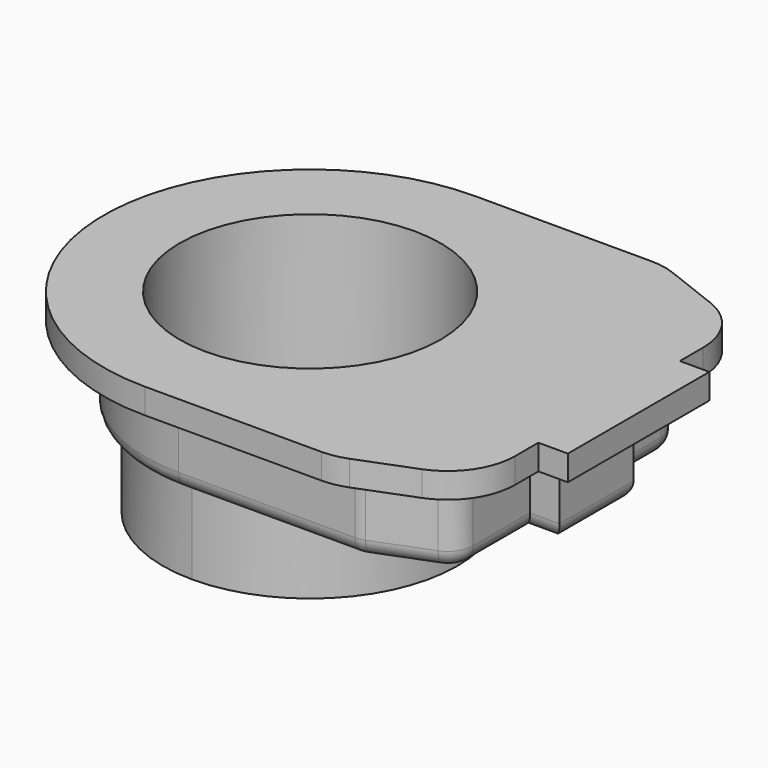
from build123d import *

# Parameters (mm, degrees)
F0_W     = 3.5
F0_H     = 11
F1_DEPTH = 10
F2_R     = 3
F3_R     = 15.5
F4_DEPTH = 25
F3_W     = 3.5
F3_H     = 5
F5_DEPTH = 3
F6_R     = 2
F7_R     = 15.5
F8_DEPTH = 10


with BuildPart() as f1:
    # F0 (on Top) → F1 (new body)
    with BuildSketch(Plane.XY):
        with BuildLine():
            ThreePointArc((0, -19.5), (13.7885822331, -13.7885822331), (19.5, 0))
            ThreePointArc((19.5, 0), (13.7885822331, 13.7885822331), (0, 19.5))
            ThreePointArc((0, 19.5), (-19.5, 0), (0, -19.5))
        make_face()
        with BuildLine():
            ThreePointArc((0, 19.5), (13.7885822331, 13.7885822331), (19.5, 0))
            ThreePointArc((19.5, 0), (13.7885822331, -13.7885822331), (0, -19.5))
            Line((0, -19.5), (21.5, -19.5))
            Line((21.5, -19.5), (21.5, 19.5))
            Line((21.5, 19.5), (0, 19.5))
        make_face()
        Polygon((30.5, 16), (21.5, 19.5), (21.5, -19.5), (30.5, -16), (30.5, -5.5), (30.5, 5.5), align=None)
        with Locations((32.25, 0)):
            Rectangle(F0_W, F0_H)
    extrude(amount=F1_DEPTH)

    # F2
    f2_edges = [f1.edges().sort_by_distance(p)[0] for p in [
        (30.5, 16, 5),
        (21.5, 19.5, 5),
        (30.5, -16, 5),
        (21.5, -19.5, 5),
    ]]
    fillet(f2_edges, radius=F2_R)

    # F3 (on face) → F4 (cut)
    with BuildSketch(Plane.XY.offset(10)):
        Circle(F3_R)
        with BuildLine():
            Line((20.9371966075, 16.5), (10.3923048454, 16.5))
            ThreePointArc((10.3923048454, 16.5), (17.0719059347, 9.4233766643), (19.5, 0))
            ThreePointArc((19.5, 0), (17.0719059347, -9.4233766643), (10.3923048454, -16.5))
            Line((10.3923048454, -16.5), (20.9371966075, -16.5))
            Line((20.9371966075, -16.5), (27.5, -13.9477986807))
            Line((27.5, -13.9477986807), (27.5, -2.5))
            Line((27.5, -2.5), (27.5, 2.5))
            Line((27.5, 2.5), (27.5, 13.9477986807))
            Line((27.5, 13.9477986807), (20.9371966075, 16.5))
        make_face()
    extrude(amount=-F4_DEPTH, mode=Mode.SUBTRACT)

    # F3 (on face) → F5 (join)
    with BuildSketch(Plane.XY.offset(10)):
        with BuildLine():
            Line((20.9371966075, 24.5), (0, 24.5))
            ThreePointArc((0, 24.5), (-24.5, 0), (0, -24.5))
            Line((0, -24.5), (20.9371966075, -24.5))
            ThreePointArc((20.9371966075, -24.5), (22.4122730498, -24.3628334263), (23.8367666967, -23.9560373723))
            Line((23.8367666967, -23.9560373723), (30.3995700892, -21.403836053))
            ThreePointArc((30.3995700892, -21.403836053), (34.1028993902, -18.4646249606), (35.5, -13.9477986807))
            Line((35.5, -13.9477986807), (35.5, -10.5))
            Line((35.5, -10.5), (39, -10.5))
            Line((39, -10.5), (39, 10.5))
            Line((39, 10.5), (35.5, 10.5))
            Line((35.5, 10.5), (35.5, 13.9477986807))
            ThreePointArc((35.5, 13.9477986807), (34.1028993902, 18.4646249606), (30.3995700892, 21.403836053))
            Line((30.3995700892, 21.403836053), (23.8367666967, 23.9560373723))
            ThreePointArc((23.8367666967, 23.9560373723), (22.4122730498, 24.3628334263), (20.9371966075, 24.5))
        make_face()
        with BuildLine():
            ThreePointArc((0, -19.5), (-19.5, 0), (0, 19.5))
            Line((0, 19.5), (20.9371966075, 19.5))
            ThreePointArc((20.9371966075, 19.5), (21.4903502734, 19.4485625349), (22.024535391, 19.2960140146))
            Line((22.024535391, 19.2960140146), (28.5873387835, 16.7438126953))
            ThreePointArc((28.5873387835, 16.7438126953), (29.9760872713, 15.6416085357), (30.5, 13.9477986807))
            Line((30.5, 13.9477986807), (30.5, 5.5))
            Line((30.5, 5.5), (34, 5.5))
            Line((34, 5.5), (34, -5.5))
            Line((34, -5.5), (30.5, -5.5))
            Line((30.5, -5.5), (30.5, -13.9477986807))
            ThreePointArc((30.5, -13.9477986807), (29.9760872713, -15.6416085357), (28.5873387835, -16.7438126953))
            Line((28.5873387835, -16.7438126953), (22.024535391, -19.2960140146))
            ThreePointArc((22.024535391, -19.2960140146), (21.4903502734, -19.4485625349), (20.9371966075, -19.5))
            Line((20.9371966075, -19.5), (0, -19.5))
        make_face(mode=Mode.SUBTRACT)
        with BuildLine():
            ThreePointArc((0, -16.5), (-16.5, 0), (0, 16.5))
            Line((0, 16.5), (10.3923048454, 16.5))
            ThreePointArc((10.3923048454, 16.5), (5.4083269132, 18.7349939952), (0, 19.5))
            ThreePointArc((0, 19.5), (-19.5, 0), (0, -19.5))
            ThreePointArc((0, -19.5), (5.4083269132, -18.7349939952), (10.3923048454, -16.5))
            Line((10.3923048454, -16.5), (0, -16.5))
        make_face()
        with Locations((29.25, 0)):
            Rectangle(F3_W, F3_H)
        with BuildLine():
            ThreePointArc((0, 19.5), (5.4083269132, 18.7349939952), (10.3923048454, 16.5))
            Line((10.3923048454, 16.5), (20.9371966075, 16.5))
            Line((20.9371966075, 16.5), (27.5, 13.9477986807))
            Line((27.5, 13.9477986807), (27.5, 2.5))
            Line((27.5, 2.5), (31, 2.5))
            Line((31, 2.5), (31, -2.5))
            Line((31, -2.5), (27.5, -2.5))
            Line((27.5, -2.5), (27.5, -13.9477986807))
            Line((27.5, -13.9477986807), (20.9371966075, -16.5))
            Line((20.9371966075, -16.5), (10.3923048454, -16.5))
            ThreePointArc((10.3923048454, -16.5), (5.4083269132, -18.7349939952), (0, -19.5))
            Line((0, -19.5), (20.9371966075, -19.5))
            ThreePointArc((20.9371966075, -19.5), (21.4903502734, -19.4485625349), (22.024535391, -19.2960140146))
            Line((22.024535391, -19.2960140146), (28.5873387835, -16.7438126953))
            ThreePointArc((28.5873387835, -16.7438126953), (29.9760872713, -15.6416085357), (30.5, -13.9477986807))
            Line((30.5, -13.9477986807), (30.5, -5.5))
            Line((30.5, -5.5), (34, -5.5))
            Line((34, -5.5), (34, 5.5))
            Line((34, 5.5), (30.5, 5.5))
            Line((30.5, 5.5), (30.5, 13.9477986807))
            ThreePointArc((30.5, 13.9477986807), (29.9760872713, 15.6416085357), (28.5873387835, 16.7438126953))
            Line((28.5873387835, 16.7438126953), (22.024535391, 19.2960140146))
            ThreePointArc((22.024535391, 19.2960140146), (21.4903502734, 19.4485625349), (20.9371966075, 19.5))
            Line((20.9371966075, 19.5), (0, 19.5))
        make_face()
        with BuildLine():
            ThreePointArc((0, -16.5), (-16.5, 0), (0, 16.5))
            Line((0, 16.5), (10.3923048454, 16.5))
            ThreePointArc((10.3923048454, 16.5), (5.4083269132, 18.7349939952), (0, 19.5))
            ThreePointArc((0, 19.5), (-19.5, 0), (0, -19.5))
            ThreePointArc((0, -19.5), (5.4083269132, -18.7349939952), (10.3923048454, -16.5))
            Line((10.3923048454, -16.5), (0, -16.5))
        make_face()
        with BuildLine():
            Line((20.9371966075, 16.5), (10.3923048454, 16.5))
            ThreePointArc((10.3923048454, 16.5), (17.0719059347, 9.4233766643), (19.5, 0))
            ThreePointArc((19.5, 0), (17.0719059347, -9.4233766643), (10.3923048454, -16.5))
            Line((10.3923048454, -16.5), (20.9371966075, -16.5))
            Line((20.9371966075, -16.5), (27.5, -13.9477986807))
            Line((27.5, -13.9477986807), (27.5, -2.5))
            Line((27.5, -2.5), (27.5, 2.5))
            Line((27.5, 2.5), (27.5, 13.9477986807))
            Line((27.5, 13.9477986807), (20.9371966075, 16.5))
        make_face()
        with BuildLine():
            Line((10.3923048454, 16.5), (0, 16.5))
            ThreePointArc((0, 16.5), (11.6672618896, 11.6672618896), (16.5, 0))
            ThreePointArc((16.5, 0), (11.6672618896, -11.6672618896), (0, -16.5))
            Line((0, -16.5), (10.3923048454, -16.5))
            ThreePointArc((10.3923048454, -16.5), (17.0719059347, -9.4233766643), (19.5, 0))
            ThreePointArc((19.5, 0), (17.0719059347, 9.4233766643), (10.3923048454, 16.5))
        make_face()
        with BuildLine():
            ThreePointArc((16.5, 0), (11.6672618896, 11.6672618896), (0, 16.5))
            ThreePointArc((0, 16.5), (-16.5, 0), (0, -16.5))
            ThreePointArc((0, -16.5), (11.6672618896, -11.6672618896), (16.5, 0))
        make_face()
        Circle(F3_R, mode=Mode.SUBTRACT)
        with BuildLine():
            ThreePointArc((0, 19.5), (5.4083269132, 18.7349939952), (10.3923048454, 16.5))
            Line((10.3923048454, 16.5), (20.9371966075, 16.5))
            Line((20.9371966075, 16.5), (27.5, 13.9477986807))
            Line((27.5, 13.9477986807), (27.5, 2.5))
            Line((27.5, 2.5), (31, 2.5))
            Line((31, 2.5), (31, -2.5))
            Line((31, -2.5), (27.5, -2.5))
            Line((27.5, -2.5), (27.5, -13.9477986807))
            Line((27.5, -13.9477986807), (20.9371966075, -16.5))
            Line((20.9371966075, -16.5), (10.3923048454, -16.5))
            ThreePointArc((10.3923048454, -16.5), (5.4083269132, -18.7349939952), (0, -19.5))
            Line((0, -19.5), (20.9371966075, -19.5))
            ThreePointArc((20.9371966075, -19.5), (21.4903502734, -19.4485625349), (22.024535391, -19.2960140146))
            Line((22.024535391, -19.2960140146), (28.5873387835, -16.7438126953))
            ThreePointArc((28.5873387835, -16.7438126953), (29.9760872713, -15.6416085357), (30.5, -13.9477986807))
            Line((30.5, -13.9477986807), (30.5, -5.5))
            Line((30.5, -5.5), (34, -5.5))
            Line((34, -5.5), (34, 5.5))
            Line((34, 5.5), (30.5, 5.5))
            Line((30.5, 5.5), (30.5, 13.9477986807))
            ThreePointArc((30.5, 13.9477986807), (29.9760872713, 15.6416085357), (28.5873387835, 16.7438126953))
            Line((28.5873387835, 16.7438126953), (22.024535391, 19.2960140146))
            ThreePointArc((22.024535391, 19.2960140146), (21.4903502734, 19.4485625349), (20.9371966075, 19.5))
            Line((20.9371966075, 19.5), (0, 19.5))
        make_face()
        with BuildLine():
            Line((20.9371966075, 16.5), (10.3923048454, 16.5))
            ThreePointArc((10.3923048454, 16.5), (17.0719059347, 9.4233766643), (19.5, 0))
            ThreePointArc((19.5, 0), (17.0719059347, -9.4233766643), (10.3923048454, -16.5))
            Line((10.3923048454, -16.5), (20.9371966075, -16.5))
            Line((20.9371966075, -16.5), (27.5, -13.9477986807))
            Line((27.5, -13.9477986807), (27.5, -2.5))
            Line((27.5, -2.5), (27.5, 2.5))
            Line((27.5, 2.5), (27.5, 13.9477986807))
            Line((27.5, 13.9477986807), (20.9371966075, 16.5))
        make_face()
    extrude(amount=F5_DEPTH)

    # F6
    f6_edges = [f1.edges().sort_by_distance(p)[0] for p in [
        (-19.5, 0, 0),
        (10.468598, -19.5, 0),
        (25.305937, -18.019913, 0),
        (30.5, -9.723899, 0),
        (29.976087, -15.641609, 0),
        (34, 0, 0),
        (32.25, 5.5, 0),
        (30.5, 9.723899, 0),
        (21.49035, -19.448563, 0),
        (10.468598, 19.5, 0),
        (25.305937, 18.019913, 0),
        (29.976087, 15.641609, 0),
        (21.49035, 19.448563, 0),
        (32.25, -5.5, 0),
    ]]
    fillet(f6_edges, radius=F6_R)

    # F7 (on face) → F8 (join)
    with BuildSketch(Plane(origin=(0, 0, 0), x_dir=(1, 0, 0), z_dir=(0, 0, -1))):
        with BuildLine():
            ThreePointArc((0, -17.5), (12.3743686708, -12.3743686708), (17.5, 0))
            ThreePointArc((17.5, 0), (12.3743686708, 12.3743686708), (0, 17.5))
            ThreePointArc((0, 17.5), (-17.5, 0), (0, -17.5))
        make_face()
        Circle(F7_R, mode=Mode.SUBTRACT)
    extrude(amount=F8_DEPTH)


solid = f1.part
